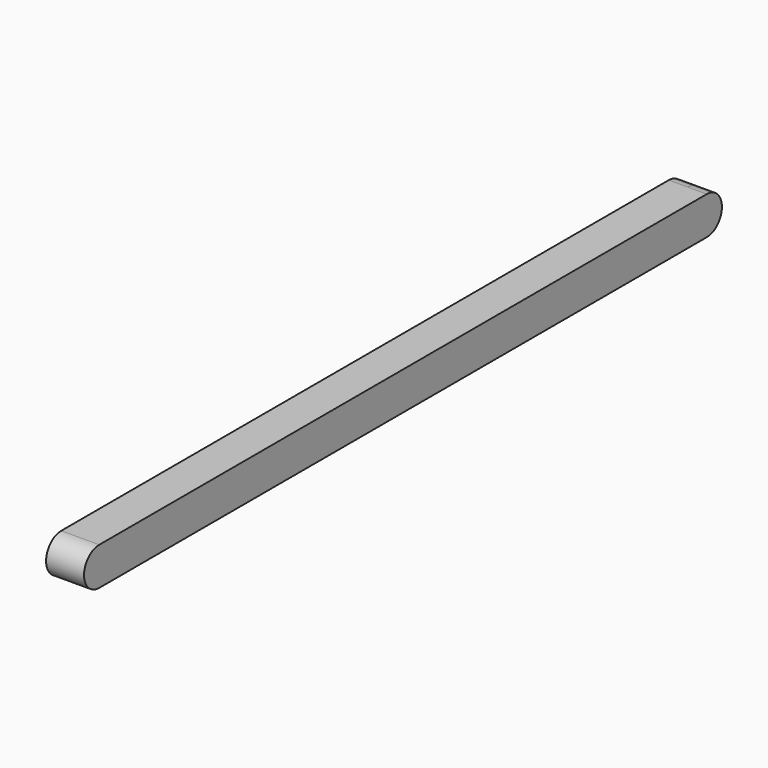
from build123d import *

# Parameters (mm, degrees)
F1_DEPTH = 0.79375


with BuildPart() as f1:
    # F0 (on Right) → F1 (new body, symmetric)
    with BuildSketch(Plane.YZ):
        with BuildLine():
            ThreePointArc((-15.875, 0.79375), (-16.66875, 0), (-15.875, -0.79375))
            Line((-15.875, -0.79375), (-15.875, 0.79375))
        make_face()
        with BuildLine():
            Line((-15.875, 0.79375), (-15.875, -0.79375))
            ThreePointArc((-15.875, -0.79375), (-15.3137339924, -0.5612660076), (-15.08125, 0))
            ThreePointArc((-15.08125, 0), (-15.3137339924, 0.5612660076), (-15.875, 0.79375))
        make_face()
        with BuildLine():
            Line((-15.875, -0.79375), (15.875, -0.79375))
            ThreePointArc((15.875, -0.79375), (15.08125, 0), (15.875, 0.79375))
            Line((15.875, 0.79375), (-15.875, 0.79375))
            ThreePointArc((-15.875, 0.79375), (-15.3137339924, 0.5612660076), (-15.08125, 0))
            ThreePointArc((-15.08125, 0), (-15.3137339924, -0.5612660076), (-15.875, -0.79375))
        make_face()
        with BuildLine():
            ThreePointArc((15.875, 0.79375), (15.08125, 0), (15.875, -0.79375))
            Line((15.875, -0.79375), (15.875, 0.79375))
        make_face()
        with BuildLine():
            Line((15.875, 0.79375), (15.875, -0.79375))
            ThreePointArc((15.875, -0.79375), (16.4362660076, -0.5612660076), (16.66875, 0))
            ThreePointArc((16.66875, 0), (16.4362660076, 0.5612660076), (15.875, 0.79375))
        make_face()
    extrude(amount=F1_DEPTH, both=True)


solid = f1.part
